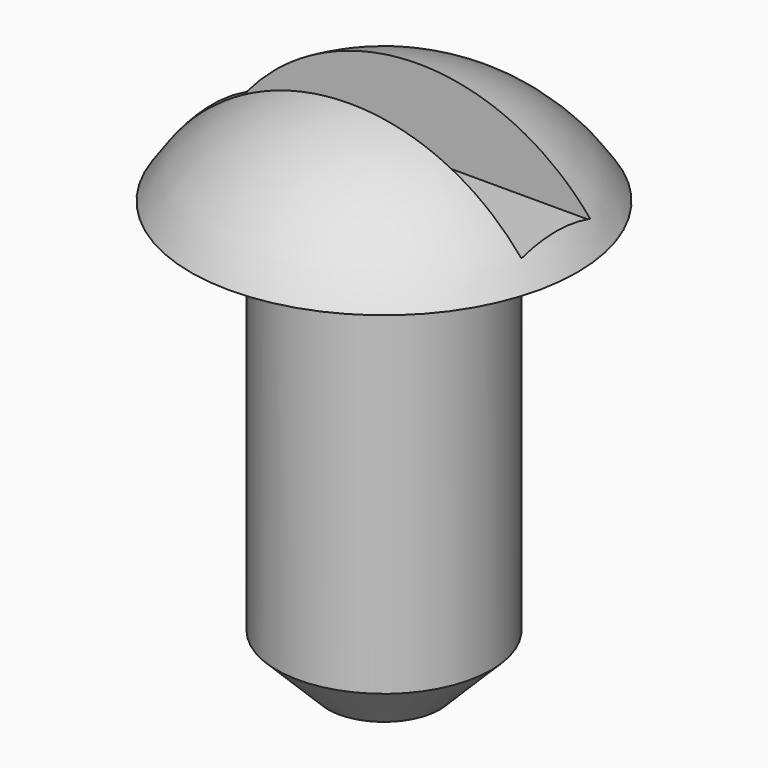
from build123d import *

# Parameters (mm, degrees)
F2_SIZE  = 1.524
F4_W     = 10.16
F4_H     = 2.54
F5_DEPTH = 2.541


with BuildPart() as f1:
    # F0 (on Front) → F1 (revolve)
    with BuildSketch(Plane.XZ):
        with BuildLine():
            ThreePointArc((5.715, 12.7), (3.268863, 15.027953), (0, 15.875))
            Line((0, 15.875), (0, 0))
            Line((0, 0), (3.175, 0))
            Line((3.175, 0), (3.175, 12.7))
            Line((3.175, 12.7), (5.715, 12.7))
        make_face()
    revolve(axis=Axis((0, 0, 17.11102), (0, 0, 1)))

    # F2
    f2_edges = [f1.edges().sort_by_distance(p)[0] for p in [
        (-3.175, 0, 0),
    ]]
    chamfer(f2_edges, length=F2_SIZE)

    # F4 (on offset) → F5 (cut, through all)
    with BuildSketch(Plane.XY.offset(13.335)):
        Rectangle(F4_W, F4_H)
    extrude(amount=F5_DEPTH, mode=Mode.SUBTRACT)


solid = f1.part
